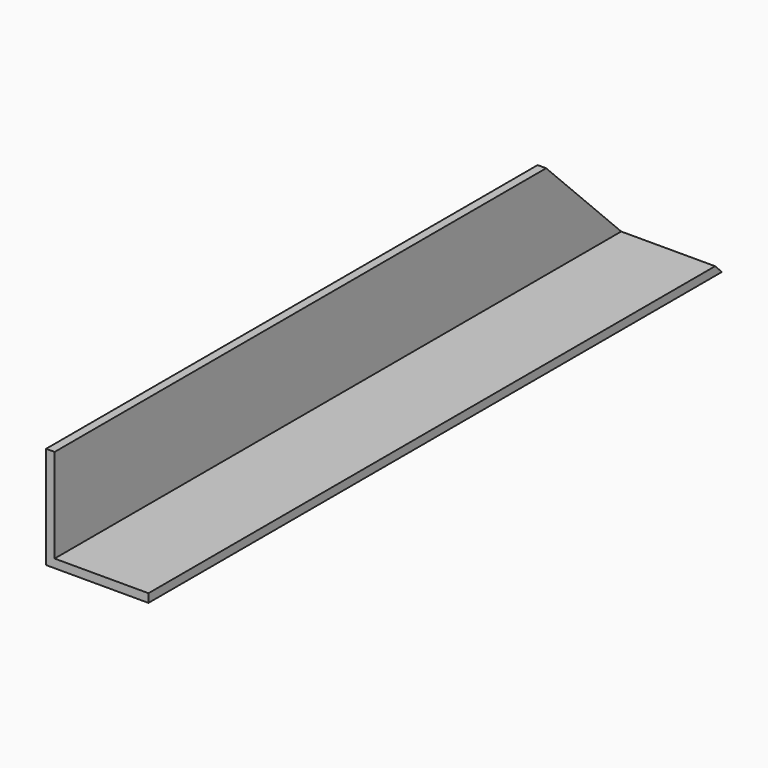
from build123d import *

# Parameters (mm, degrees)
F1_DEPTH = 266.7
F3_DEPTH = 76.2


with BuildPart() as f1:
    # F0 (on Front) → F1 (new body, symmetric)
    with BuildSketch(Plane.XZ):
        Polygon((-38.1, -38.1), (38.1, -38.1), (38.1, -31.75), (-31.75, -31.75), (-31.75, 38.1), (-38.1, 38.1), align=None)
    extrude(amount=F1_DEPTH, both=True)

    # F2 (on face) → F3 (cut)
    with BuildSketch(Plane(origin=(-38.1, 0, 0), x_dir=(0, -1, 0), z_dir=(-1, 0, 0))):
        Polygon((-266.7, 38.1), (-266.7, -38.1), (-190.5, 38.1), align=None)
    extrude(amount=-F3_DEPTH, mode=Mode.SUBTRACT)


solid = f1.part
